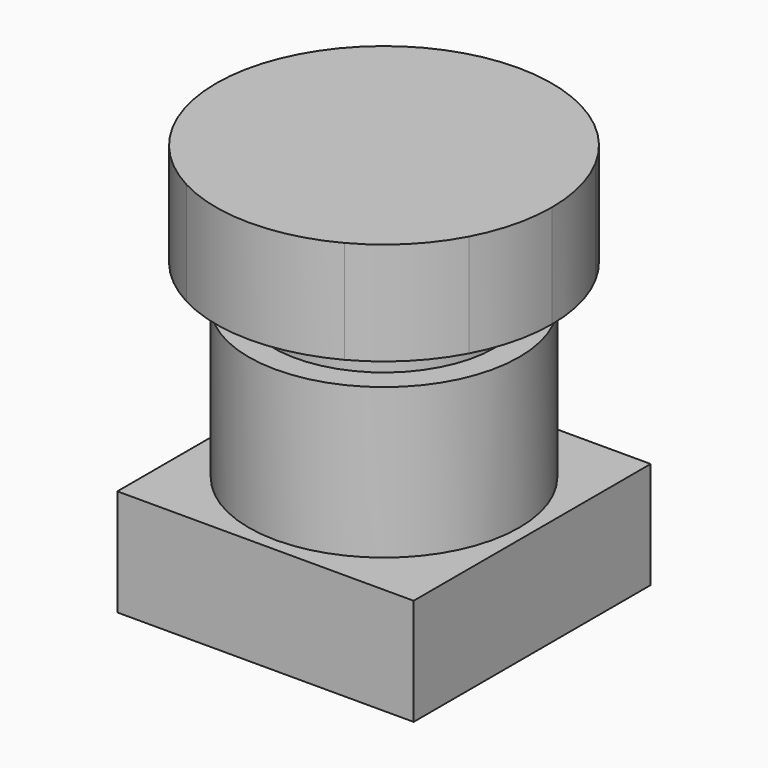
from build123d import *

# Parameters (mm, degrees)
F0_R     = 6.85
F0_R_2   = 5.6
F1_DEPTH = 5.4
F2_DEPTH = 13
F3_DEPTH = 15
F4_START = 15
F4_DEPTH = 5.21


with BuildPart() as f1:
    # F0 (on Top) → F1 (new body)
    with BuildSketch(Plane.XY):
        with BuildLine():
            ThreePointArc((4, 7.5), (6.0104076401, 6.0104076401), (7.5, 4))
            Line((7.5, 4), (7.5, 7.5))
            Line((7.5, 7.5), (4, 7.5))
        make_face()
        with BuildLine():
            Line((7.5, -4), (7.5, 4))
            ThreePointArc((7.5, 4), (6.0104076401, 6.0104076401), (4, 7.5))
            Line((4, 7.5), (-4, 7.5))
            ThreePointArc((-4, 7.5), (-6.0104076401, 6.0104076401), (-7.5, 4))
            Line((-7.5, 4), (-7.5, -4))
            ThreePointArc((-7.5, -4), (-6.0104076401, -6.0104076401), (-4, -7.5))
            Line((-4, -7.5), (4, -7.5))
            ThreePointArc((4, -7.5), (6.0104076401, -6.0104076401), (7.5, -4))
        make_face()
        Circle(F0_R, mode=Mode.SUBTRACT)
        Circle(F0_R)
        Circle(F0_R_2, mode=Mode.SUBTRACT)
        Circle(F0_R_2)
        with BuildLine():
            ThreePointArc((-7.5, 4), (-6.0104076401, 6.0104076401), (-4, 7.5))
            Line((-4, 7.5), (-7.5, 7.5))
            Line((-7.5, 7.5), (-7.5, 4))
        make_face()
        with BuildLine():
            Line((-7.5, -7.5), (-4, -7.5))
            ThreePointArc((-4, -7.5), (-6.0104076401, -6.0104076401), (-7.5, -4))
            Line((-7.5, -4), (-7.5, -7.5))
        make_face()
        with BuildLine():
            Line((7.5, -7.5), (7.5, -4))
            ThreePointArc((7.5, -4), (6.0104076401, -6.0104076401), (4, -7.5))
            Line((4, -7.5), (7.5, -7.5))
        make_face()
    extrude(amount=F1_DEPTH)

    # F0 (on Top) → F2 (join)
    with BuildSketch(Plane.XY):
        Circle(F0_R)
        Circle(F0_R_2, mode=Mode.SUBTRACT)
        Circle(F0_R_2)
    extrude(amount=F2_DEPTH)

    # F0 (on Top) → F3 (join)
    with BuildSketch(Plane.XY):
        Circle(F0_R_2)
    extrude(amount=F3_DEPTH)

    # F0 (on Top) → F4 (join)
    with BuildSketch(Plane.XY.offset(F4_START)):
        with BuildLine():
            Line((-7.5, -4), (-7.5, 4))
            ThreePointArc((-7.5, 4), (-8.5, 0), (-7.5, -4))
        make_face()
        with BuildLine():
            Line((7.5, -4), (7.5, 4))
            ThreePointArc((7.5, 4), (6.0104076401, 6.0104076401), (4, 7.5))
            Line((4, 7.5), (-4, 7.5))
            ThreePointArc((-4, 7.5), (-6.0104076401, 6.0104076401), (-7.5, 4))
            Line((-7.5, 4), (-7.5, -4))
            ThreePointArc((-7.5, -4), (-6.0104076401, -6.0104076401), (-4, -7.5))
            Line((-4, -7.5), (4, -7.5))
            ThreePointArc((4, -7.5), (6.0104076401, -6.0104076401), (7.5, -4))
        make_face()
        Circle(F0_R, mode=Mode.SUBTRACT)
        Circle(F0_R)
        Circle(F0_R_2, mode=Mode.SUBTRACT)
        Circle(F0_R_2)
        with BuildLine():
            ThreePointArc((-4, -7.5), (0, -8.5), (4, -7.5))
            Line((4, -7.5), (-4, -7.5))
        make_face()
        with BuildLine():
            ThreePointArc((7.5, -4), (8.2462112512, -2.0615528128), (8.5, 0))
            ThreePointArc((8.5, 0), (8.2462112512, 2.0615528128), (7.5, 4))
            Line((7.5, 4), (7.5, -4))
        make_face()
        with BuildLine():
            Line((-4, 7.5), (4, 7.5))
            ThreePointArc((4, 7.5), (0, 8.5), (-4, 7.5))
        make_face()
    extrude(amount=F4_DEPTH)


solid = f1.part
